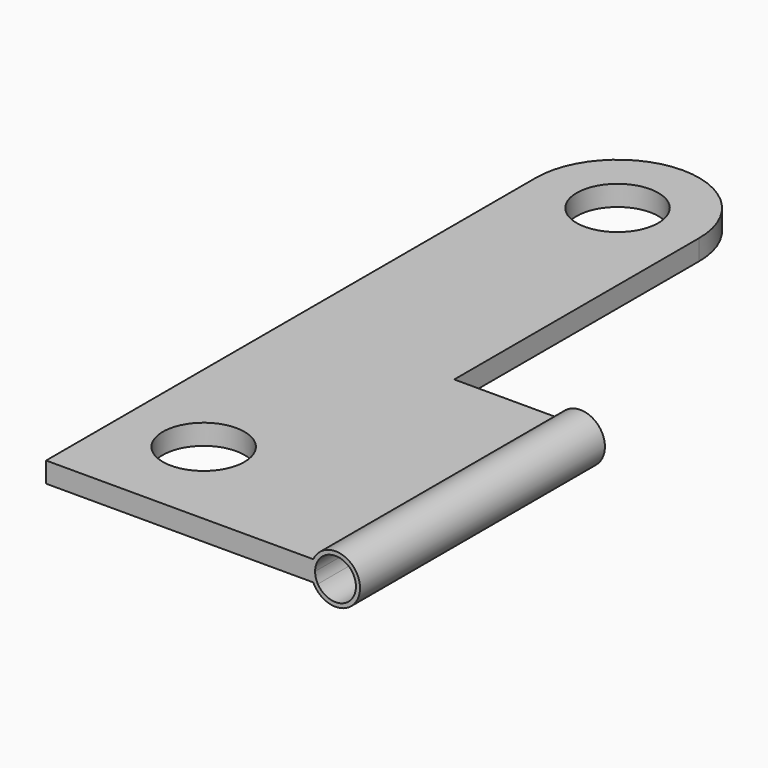
from build123d import *

# Parameters (mm, degrees)
F0_R     = 5
F0_W     = 15.4567654431
F0_H     = 37.5
F1_DEPTH = 2.5
F3_DEPTH = 37.501
F2_R     = 3
F2_R_2   = 2.5
F4_DEPTH = 37.5


with BuildPart() as f1:
    # F0 (on Top) → F1 (new body)
    with BuildSketch(Plane.XY):
        with BuildLine():
            Line((0, 75), (0, 0))
            Line((0, 0), (20, 0))
            Line((20, 0), (20, 37.5))
            Line((20, 37.5), (20, 75))
            ThreePointArc((20, 75), (10, 65), (0, 75))
        make_face()
        with Locations((10, 11.628289707)):
            Circle(F0_R, mode=Mode.SUBTRACT)
        with Locations((27.7283827215, 18.75)):
            Rectangle(F0_W, F0_H)
        with BuildLine():
            ThreePointArc((20, 75), (10, 85), (0, 75))
            Line((0, 75), (5, 75))
            ThreePointArc((5, 75), (10, 80), (15, 75))
            Line((15, 75), (20, 75))
        make_face()
        with BuildLine():
            Line((5, 75), (0, 75))
            ThreePointArc((0, 75), (10, 65), (20, 75))
            Line((20, 75), (15, 75))
            ThreePointArc((15, 75), (10, 70), (5, 75))
        make_face()
    extrude(amount=F1_DEPTH)

    # F2 (on face) → F3 (cut, through all)
    with BuildSketch(Plane(origin=(0, 37.5, 0), x_dir=(-1, 0, 0), z_dir=(0, 1, 0))):
        with BuildLine():
            ThreePointArc((-32.9567654431, 1.25), (-33.0419508774, 1.8970476128), (-33.2917019336, 2.5))
            Line((-33.2917019336, 2.5), (-35.4567654431, 2.5))
            Line((-35.4567654431, 2.5), (-35.4567654431, 0))
            Line((-35.4567654431, 0), (-33.2917019336, 0))
            ThreePointArc((-33.2917019336, 0), (-33.0419508774, 0.6029523872), (-32.9567654431, 1.25))
        make_face()
    extrude(amount=-F3_DEPTH, mode=Mode.SUBTRACT)

    # F2 (on face) → F4 (join)
    with BuildSketch(Plane(origin=(0, 37.5, 0), x_dir=(-1, 0, 0), z_dir=(0, 1, 0))):
        with Locations((-35.4567654431, 1.25)):
            Circle(F2_R)
        with Locations((-35.4567654431, 1.25)):
            Circle(F2_R_2, mode=Mode.SUBTRACT)
    extrude(amount=-F4_DEPTH)


solid = f1.part
